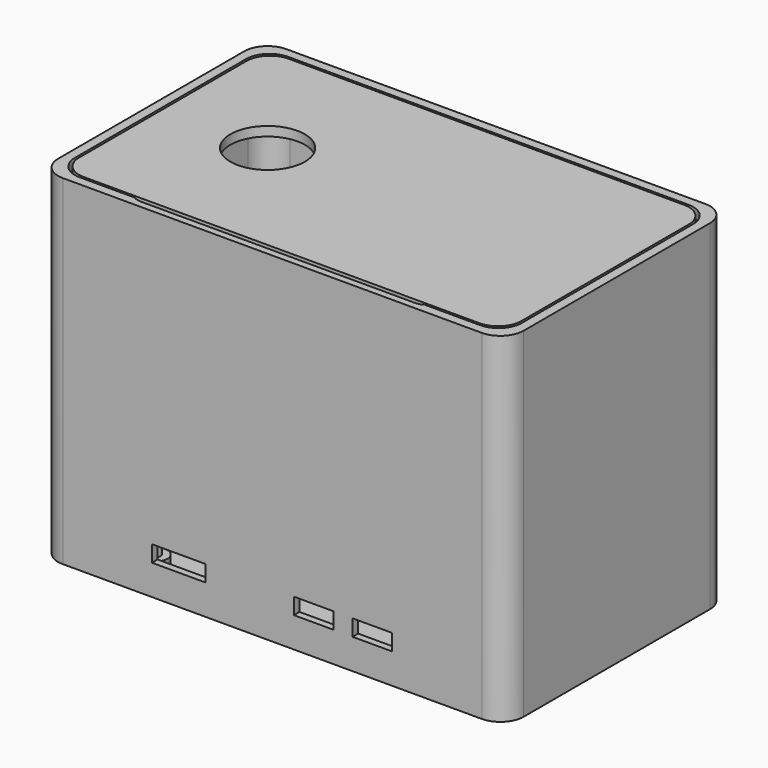
from build123d import *

# Parameters (mm, degrees)
F1_DEPTH  = 3
F3_DEPTH  = 7
F4_W      = 11.5
F4_H      = 3.5
F4_W_2    = 8.5
F5_DEPTH  = 1.5
F6_R      = 2.5
F7_DEPTH  = 2
F8_R      = 1
F9_DEPTH  = 4
F10_W     = 12.1
F10_H     = 3.5
F11_DEPTH = 1.118519
F13_DEPTH = 7
F15_DEPTH = 63
F17_DEPTH = 2
F19_W     = 72
F19_H     = 24
F20_DEPTH = 4
F21_R     = 2.3
F22_DEPTH = 4
F23_W     = 66.979637
F23_H     = 1.6
F24_DEPTH = 7
F26_DEPTH = 2
F27_R     = 8
F28_DEPTH = 2


with BuildPart() as f1:
    # F0 (on Top) → F1 (new body)
    with BuildSketch(Plane.XY):
        with BuildLine():
            Line((-45, -30), (45, -30))
            ThreePointArc((45, -30), (48.535534, -28.535534), (50, -25))
            Line((50, -25), (50, 25))
            ThreePointArc((50, 25), (48.535534, 28.535534), (45, 30))
            Line((45, 30), (-45, 30))
            ThreePointArc((-45, 30), (-48.535534, 28.535534), (-50, 25))
            Line((-50, 25), (-50, -25))
            ThreePointArc((-50, -25), (-48.535534, -28.535534), (-45, -30))
        make_face()
    extrude(amount=F1_DEPTH)

    # F2 (on face) → F3 (join)
    with BuildSketch(Plane.XY.offset(3)):
        with BuildLine():
            ThreePointArc((-29.118519, 3), (-32.300499, 1.681981), (-33.618519, -1.5))
            Line((-33.618519, -1.5), (-33.618519, -25.5))
            ThreePointArc((-33.618519, -25.5), (-32.300499, -28.681981), (-29.118519, -30))
            Line((-29.118519, -30), (29.118519, -30))
            ThreePointArc((29.118519, -30), (32.300499, -28.681981), (33.618519, -25.5))
            Line((33.618519, -25.5), (33.618519, -1.5))
            ThreePointArc((33.618519, -1.5), (32.580884, 1.44001), (29.881481, 3))
            Line((29.881481, 3), (-29.118519, 3))
        make_face()
        with BuildLine():
            Line((-32.5, -25.5), (-32.5, -1.5))
            ThreePointArc((-32.5, -1.5), (-31.62132, 0.62132), (-29.5, 1.5))
            Line((-29.5, 1.5), (29.5, 1.5))
            ThreePointArc((29.5, 1.5), (31.62132, 0.62132), (32.5, -1.5))
            Line((32.5, -1.5), (32.5, -25.5))
            ThreePointArc((32.5, -25.5), (31.62132, -27.62132), (29.5, -28.5))
            Line((29.5, -28.5), (-29.5, -28.5))
            ThreePointArc((-29.5, -28.5), (-31.62132, -27.62132), (-32.5, -25.5))
        make_face(mode=Mode.SUBTRACT)
    extrude(amount=F3_DEPTH)

    # F4 (on face) → F5 (cut, through all)
    with BuildSketch(Plane.XZ.offset(30)):
        with Locations((-20.1, 8.25)):
            Rectangle(F4_W, F4_H)
        with Locations((8.9, 8.25)):
            Rectangle(F4_W_2, F4_H)
        with Locations((21.5, 8.25)):
            Rectangle(F4_W_2, F4_H)
    extrude(amount=-F5_DEPTH, mode=Mode.SUBTRACT)

    # F6 (on face) → F7 (join)
    with BuildSketch(Plane.XY.offset(3)):
        with Locations((-29, -2)):
            Circle(F6_R)
        with Locations((29, -2)):
            Circle(F6_R)
        with Locations((29, -25)):
            Circle(F6_R)
        with Locations((-29, -25)):
            Circle(F6_R)
    extrude(amount=F7_DEPTH)

    # F8 (on face) → F9 (join)
    with BuildSketch(Plane.XY.offset(5)):
        with Locations((-29, -2)):
            Circle(F8_R)
        with Locations((29, -2)):
            Circle(F8_R)
        with Locations((29, -25)):
            Circle(F8_R)
        with Locations((-29, -25)):
            Circle(F8_R)
    extrude(amount=F9_DEPTH)

    # F10 (on face) → F11 (cut, through all)
    with BuildSketch(Plane(origin=(-33.618519, 0, 0), x_dir=(0, -1, 0), z_dir=(-1, 0, 0))):
        with Locations((11.6, 8.25)):
            Rectangle(F10_W, F10_H)
    extrude(amount=-F11_DEPTH, mode=Mode.SUBTRACT)

    # F12 (on face) → F13 (join, through all)
    with BuildSketch(Plane.XY.offset(3)):
        with BuildLine():
            ThreePointArc((50, 25), (48.535534, 28.535534), (45, 30))
            Line((45, 30), (-45, 30))
            ThreePointArc((-45, 30), (-48.535534, 28.535534), (-50, 25))
            Line((-50, 25), (-50, -25))
            ThreePointArc((-50, -25), (-48.535534, -28.535534), (-45, -30))
            Line((-45, -30), (-29.118519, -30))
            ThreePointArc((-29.118519, -30), (-32.118519, -28.854102), (-33.590654, -26))
            Line((-33.590654, -26), (-41, -26))
            ThreePointArc((-41, -26), (-44.535534, -24.535534), (-46, -21))
            Line((-46, -21), (-46, 21))
            ThreePointArc((-46, 21), (-44.535534, 24.535534), (-41, 26))
            Line((-41, 26), (41, 26))
            ThreePointArc((41, 26), (44.535534, 24.535534), (46, 21))
            Line((46, 21), (46, -21))
            ThreePointArc((46, -21), (44.535534, -24.535534), (41, -26))
            Line((41, -26), (33.590654, -26))
            ThreePointArc((33.590654, -26), (32.118519, -28.854102), (29.118519, -30))
            Line((29.118519, -30), (45, -30))
            ThreePointArc((45, -30), (48.535534, -28.535534), (50, -25))
            Line((50, -25), (50, 25))
        make_face()
    extrude(amount=F13_DEPTH)

    # F14 (on face) → F15 (join)
    with BuildSketch(Plane.XY.offset(10)):
        with BuildLine():
            ThreePointArc((50, 25), (48.535534, 28.535534), (45, 30))
            Line((45, 30), (-45, 30))
            ThreePointArc((-45, 30), (-48.535534, 28.535534), (-50, 25))
            Line((-50, 25), (-50, -25))
            ThreePointArc((-50, -25), (-48.535534, -28.535534), (-45, -30))
            Line((-45, -30), (45, -30))
            ThreePointArc((45, -30), (48.535534, -28.535534), (50, -25))
            Line((50, -25), (50, 25))
        make_face()
        with BuildLine():
            Line((-41, 26), (41, 26))
            ThreePointArc((41, 26), (44.535534, 24.535534), (46, 21))
            Line((46, 21), (46, -21))
            ThreePointArc((46, -21), (44.535534, -24.535534), (41, -26))
            Line((41, -26), (32.45804, -26))
            ThreePointArc((32.45804, -26), (31.436492, -27.791288), (29.5, -28.5))
            Line((29.5, -28.5), (-29.5, -28.5))
            ThreePointArc((-29.5, -28.5), (-31.436492, -27.791288), (-32.45804, -26))
            Line((-32.45804, -26), (-41, -26))
            ThreePointArc((-41, -26), (-44.535534, -24.535534), (-46, -21))
            Line((-46, -21), (-46, 21))
            ThreePointArc((-46, 21), (-44.535534, 24.535534), (-41, 26))
        make_face(mode=Mode.SUBTRACT)
    extrude(amount=F15_DEPTH)

    # F16 (on face) → F17 (cut)
    with BuildSketch(Plane.XY.offset(73)):
        with BuildLine():
            ThreePointArc((48, 23), (46.535534, 26.535534), (43, 28))
            Line((43, 28), (-43, 28))
            ThreePointArc((-43, 28), (-46.535534, 26.535534), (-48, 23))
            Line((-48, 23), (-48, -23))
            ThreePointArc((-48, -23), (-46.535534, -26.535534), (-43, -28))
            Line((-43, -28), (43, -28))
            ThreePointArc((43, -28), (46.535534, -26.535534), (48, -23))
            Line((48, -23), (48, 23))
        make_face()
    extrude(amount=-F17_DEPTH, mode=Mode.SUBTRACT)

    # F19 (on face) → F20 (cut, through all)
    with BuildSketch(Plane.XZ.offset(-26)):
        with Locations((0, 40.611031)):
            Rectangle(F19_W, F19_H)
    extrude(amount=-F20_DEPTH, mode=Mode.SUBTRACT)

    # F21 (on face) → F22 (cut, through all)
    with BuildSketch(Plane(origin=(0, 30, 0), x_dir=(-1, 0, 0), z_dir=(0, 1, 0))):
        with Locations((8.545, 15.861031)):
            Circle(F21_R)
        with Locations((18.545, 15.861031)):
            Circle(F21_R)
        with Locations((28.545, 12.861031)):
            Circle(F21_R)
        with Locations((28.545, 18.861031)):
            Circle(F21_R)
        with Locations((37.545, 15.861031)):
            Circle(F21_R)
    extrude(amount=-F22_DEPTH, mode=Mode.SUBTRACT)

    # F23 (on face) → F24 (cut, through all)
    with BuildSketch(Plane.XY.offset(10)):
        with Locations((-0.128701, 2.2)):
            Rectangle(F23_W, F23_H)
    extrude(amount=-F24_DEPTH, mode=Mode.SUBTRACT)


with BuildPart() as f26:
    # F25 (on face) → F26 (new body)
    with BuildSketch(Plane.XY.offset(71)):
        with BuildLine():
            ThreePointArc((47.5, 22.5), (46.035534, 26.035534), (42.5, 27.5))
            Line((42.5, 27.5), (-42.5, 27.5))
            ThreePointArc((-42.5, 27.5), (-46.035534, 26.035534), (-47.5, 22.5))
            Line((-47.5, 22.5), (-47.5, -22.5))
            ThreePointArc((-47.5, -22.5), (-46.035534, -26.035534), (-42.5, -27.5))
            Line((-42.5, -27.5), (42.5, -27.5))
            ThreePointArc((42.5, -27.5), (46.035534, -26.035534), (47.5, -22.5))
            Line((47.5, -22.5), (47.5, 22.5))
        make_face()
    extrude(amount=F26_DEPTH)

    # F27 (on face) → F28 (cut, through all)
    with BuildSketch(Plane.XY.offset(73)):
        with Locations((-25, 0)):
            Circle(F27_R)
    extrude(amount=-F28_DEPTH, mode=Mode.SUBTRACT)


solid = Compound([f1.part, f26.part])
